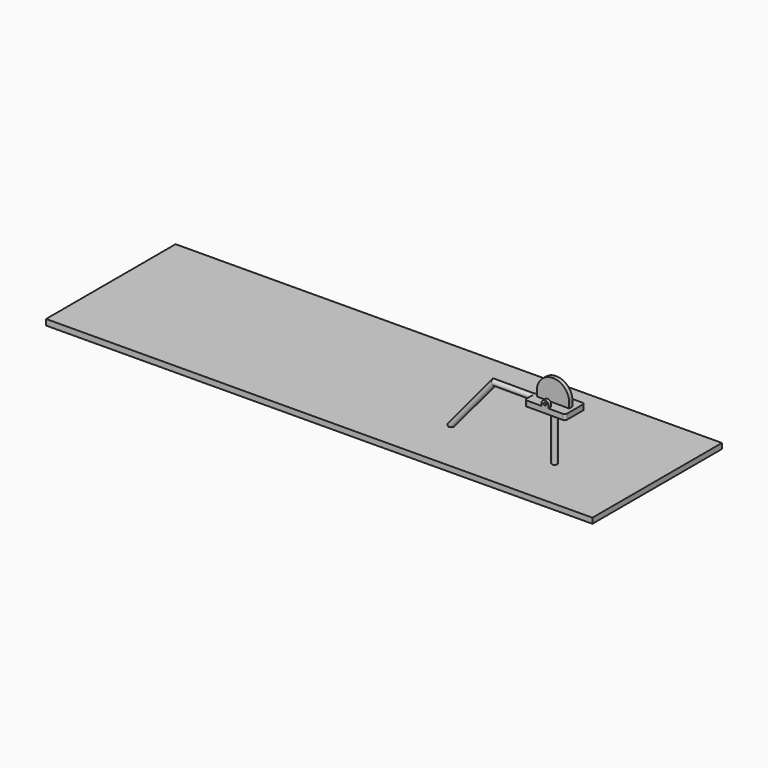
from build123d import *

# Parameters (mm, degrees)
F1_DEPTH       = 150
F3_R           = 5
F4_DEPTH       = 12.5
F6_R           = 5
F7_DEPTH       = 12.5
F10_DEPTH      = 7.5
F10_DEPTH_BACK = 7.5
F13_R          = 10
F15_DEPTH      = 400
F15_DEPTH_BACK = 200
F18_DEPTH      = 190
F19_R          = 8


with BuildPart() as f1:
    # F0 (on Right) → F1 (new body)
    with BuildSketch(Plane.YZ):
        Polygon((45, 10), (0, 10), (-45, 10), (-45, -10), (45, -10), align=None)
    extrude(amount=F1_DEPTH)

    # F3 (on offset) → F4 (join)
    with BuildSketch(Plane.XZ.offset(45)):
        with BuildLine():
            Line((87.5, 10), (87.5, 20))
            ThreePointArc((87.5, 20), (75, 32.5), (62.5, 20))
            Line((62.5, 20), (62.5, 10))
            Line((62.5, 10), (75, 10))
            Line((75, 10), (87.5, 10))
        make_face()
        with Locations((75, 20)):
            Circle(F3_R, mode=Mode.SUBTRACT)
    extrude(amount=-F4_DEPTH)

    # F6 (on offset) → F7 (join)
    with BuildSketch(Plane(origin=(0, 45, 0), x_dir=(-1, 0, 0), z_dir=(0, 1, 0))):
        with BuildLine():
            Line((-62.5, 10), (-62.5, 20))
            ThreePointArc((-62.5, 20), (-75, 32.5), (-87.5, 20))
            Line((-87.5, 20), (-87.5, 10))
            Line((-87.5, 10), (-75, 10))
            Line((-75, 10), (-62.5, 10))
        make_face()
        with Locations((-75, 20)):
            Circle(F6_R, mode=Mode.SUBTRACT)
    extrude(amount=-F7_DEPTH)

    # F9 (on offset) → F10 (join, two sides)
    with BuildSketch(Plane(origin=(0, 0, 0), x_dir=(-1, 0, 0), z_dir=(0, 1, 0))) as f10_sk:
        with BuildLine():
            Line((-15, 10), (-15, 30))
            ThreePointArc((-15, 30), (-75, 90), (-135, 30))
            Line((-135, 30), (-135, 10))
            Line((-135, 10), (-75, 10))
            Line((-75, 10), (-15, 10))
        make_face()
    extrude(amount=F10_DEPTH)
    extrude(f10_sk.sketch, amount=-F10_DEPTH_BACK)

    # F14: sweep along a path in F11
    with BuildLine(Plane(origin=(0, 0, 0), x_dir=(-1, 0, 0), z_dir=(0, 1, 0))) as f14_path:
        Line((0, 0), (150, 0))
        Line((150, 0), (310.6493984302, -193.3859714218))
    # F13 (on offset) → F14 (sweep)
    with BuildSketch(Plane(origin=(0, 0, 0), x_dir=(0, -1, 0), z_dir=(-1, 0, 0))):
        Circle(F13_R)
    sweep(path=f14_path.line, transition=Transition.RIGHT)

    # F11 (on offset) → F15 (join, two sides)
    with BuildSketch(Plane(origin=(0, 0, 0), x_dir=(-1, 0, 0), z_dir=(0, 1, 0))) as f15_sk:
        Polygon((310.6493984302, -193.3859714218), (-375, -190), (-375, -210), (1649.8449922529, -221.7384290839), (1649.9710142492, -200), align=None)
    extrude(amount=F15_DEPTH)
    extrude(f15_sk.sketch, amount=-F15_DEPTH_BACK)

    # F17 (on offset) → F18 (join)
    with BuildSketch(Plane(origin=(0, 0, -10), x_dir=(1, 0, 0), z_dir=(0, 0, -1))):
        with BuildLine():
            ThreePointArc((65, 0), (75, -10), (85, 0))
            ThreePointArc((85, 0), (75, 10), (65, 0))
        make_face()
    extrude(amount=F18_DEPTH)

    # F19
    f19_edges = [f1.edges().sort_by_distance(p)[0] for p in [
        (0, -45, 0),
        (150, -45, 0),
        (150, 45, 0),
        (0, 45, 0),
    ]]
    fillet(f19_edges, radius=F19_R)


solid = f1.part
